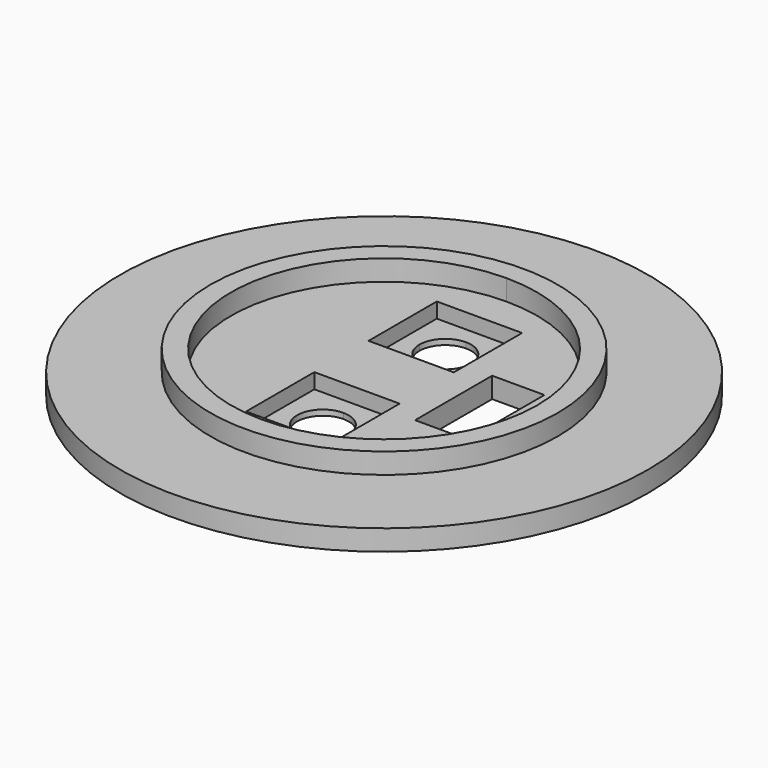
from build123d import *

# Parameters (mm, degrees)
F0_R     = 19.185
F0_R_2   = 12.625
F1_DEPTH = 1.5
F2_DEPTH = 3
F3_DEPTH = 1.5
F4_DEPTH = 0.4


with BuildPart() as f1:
    # F0 (on Top) → F1 (new body)
    with BuildSketch(Plane.XY):
        Circle(F0_R)
        Circle(F0_R_2, mode=Mode.SUBTRACT)
    extrude(amount=F1_DEPTH)

    # F0 (on Top) → F2 (join)
    with BuildSketch(Plane.XY):
        Circle(F0_R_2)
        with BuildLine():
            ThreePointArc((0, 11.125), (7.866563, 7.866563), (11.125, 0))
            ThreePointArc((11.125, 0), (7.866563, -7.866563), (0, -11.125))
            ThreePointArc((0, -11.125), (-11.125, 0), (0, 11.125))
        make_face(mode=Mode.SUBTRACT)
    extrude(amount=F2_DEPTH)

    # F0 (on Top) → F3 (join)
    with BuildSketch(Plane.XY):
        with BuildLine():
            Line((0, 8.6625), (0, 11.125))
            ThreePointArc((0, 11.125), (-11.125, 0), (0, -11.125))
            Line((0, -11.125), (0, -8.6625))
            Line((0, -8.6625), (-3.1, -8.6625))
            Line((-3.1, -8.6625), (-3.1, -2.4625))
            Line((-3.1, -2.4625), (0, -2.4625))
            Line((0, -2.4625), (0, 2.4625))
            Line((0, 2.4625), (-3.1, 2.4625))
            Line((-3.1, 2.4625), (-3.1, 5.5625))
            Line((-3.1, 5.5625), (-3.1, 8.6625))
            Line((-3.1, 8.6625), (0, 8.6625))
        make_face()
        with BuildLine():
            ThreePointArc((0, -11.125), (7.866563, -7.866563), (11.125, 0))
            ThreePointArc((11.125, 0), (7.866563, 7.866563), (0, 11.125))
            Line((0, 11.125), (0, 8.6625))
            Line((0, 8.6625), (3.1, 8.6625))
            Line((3.1, 8.6625), (3.1, 2.4625))
            Line((3.1, 2.4625), (0, 2.4625))
            Line((0, 2.4625), (0, -2.4625))
            Line((0, -2.4625), (3.1, -2.4625))
            Line((3.1, -2.4625), (3.1, -8.6625))
            Line((3.1, -8.6625), (0, -8.6625))
            Line((0, -8.6625), (0, -11.125))
        make_face()
        Polygon((8.853125, -3.5), (6.953125, -3.5), (5.053125, -3.5), (5.053125, 3.5), (6.953125, 3.5), (8.853125, 3.5), align=None, mode=Mode.SUBTRACT)
    extrude(amount=F3_DEPTH)

    # F0 (on Top) → F4 (join)
    with BuildSketch(Plane.XY):
        with BuildLine():
            Line((3.1, 8.6625), (0, 8.6625))
            Line((0, 8.6625), (0, 8.34375))
            Line((0, 8.34375), (0, 7.4375))
            ThreePointArc((0, 7.4375), (1.325825, 6.888325), (1.875, 5.5625))
            ThreePointArc((1.875, 5.5625), (1.325825, 4.236675), (0, 3.6875))
            Line((0, 3.6875), (0, 2.4625))
            Line((0, 2.4625), (3.1, 2.4625))
            Line((3.1, 2.4625), (3.1, 8.6625))
        make_face()
        with BuildLine():
            Line((0, 8.34375), (0, 8.6625))
            Line((0, 8.6625), (-3.1, 8.6625))
            Line((-3.1, 8.6625), (-3.1, 5.5625))
            Line((-3.1, 5.5625), (-1.875, 5.5625))
            ThreePointArc((-1.875, 5.5625), (-1.325825, 6.888325), (0, 7.4375))
            Line((0, 7.4375), (0, 8.34375))
        make_face()
        with BuildLine():
            Line((-1.875, 5.5625), (-3.1, 5.5625))
            Line((-3.1, 5.5625), (-3.1, 2.4625))
            Line((-3.1, 2.4625), (0, 2.4625))
            Line((0, 2.4625), (0, 3.6875))
            ThreePointArc((0, 3.6875), (-1.325825, 4.236675), (-1.875, 5.5625))
        make_face()
        with BuildLine():
            Line((0, -7.4375), (0, -8.6625))
            Line((0, -8.6625), (3.1, -8.6625))
            Line((3.1, -8.6625), (3.1, -2.4625))
            Line((3.1, -2.4625), (0, -2.4625))
            Line((0, -2.4625), (0, -3.6875))
            ThreePointArc((0, -3.6875), (1.325825, -4.236675), (1.875, -5.5625))
            ThreePointArc((1.875, -5.5625), (1.325825, -6.888325), (0, -7.4375))
        make_face()
        with BuildLine():
            Line((-3.1, -8.6625), (0, -8.6625))
            Line((0, -8.6625), (0, -7.4375))
            ThreePointArc((0, -7.4375), (-1.875, -5.5625), (0, -3.6875))
            Line((0, -3.6875), (0, -2.4625))
            Line((0, -2.4625), (-3.1, -2.4625))
            Line((-3.1, -2.4625), (-3.1, -8.6625))
        make_face()
    extrude(amount=F4_DEPTH)


solid = f1.part
